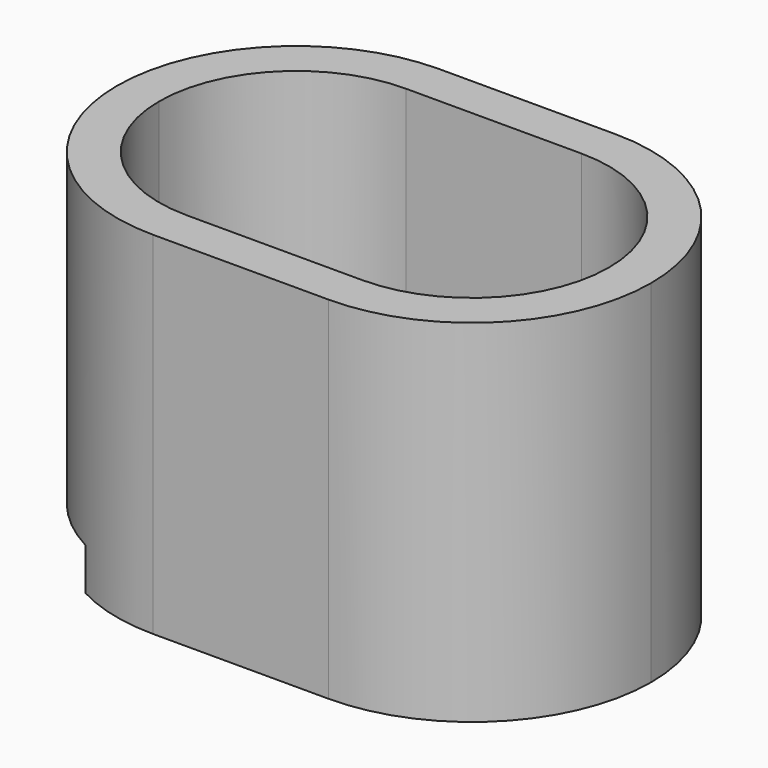
from build123d import *

# Parameters (mm, degrees)
F2_DEPTH = 25
F4_DEPTH = 3


with BuildPart() as f2:
    # F1 (on Top) → F2 (new body)
    with BuildSketch(Plane.XY):
        with BuildLine():
            ThreePointArc((19, 0), (15.265611, 9.015611), (6.25, 12.75))
            Line((6.25, 12.75), (-6.25, 12.75))
            ThreePointArc((-6.25, 12.75), (-15.265611, 9.015611), (-19, 0))
            ThreePointArc((-19, 0), (-15.265611, -9.015611), (-6.25, -12.75))
            Line((-6.25, -12.75), (6.25, -12.75))
            ThreePointArc((6.25, -12.75), (15.265611, -9.015611), (19, 0))
        make_face()
        with BuildLine():
            ThreePointArc((16, 0), (13.144291, -6.894291), (6.25, -9.75))
            Line((6.25, -9.75), (-6.25, -9.75))
            ThreePointArc((-6.25, -9.75), (-13.144291, -6.894291), (-16, 0))
            ThreePointArc((-16, 0), (-13.144291, 6.894291), (-6.25, 9.75))
            Line((-6.25, 9.75), (6.25, 9.75))
            ThreePointArc((6.25, 9.75), (13.144291, 6.894291), (16, 0))
        make_face(mode=Mode.SUBTRACT)
    extrude(amount=F2_DEPTH)

    # F3 (on Top) → F4 (cut)
    with BuildSketch(Plane.XY):
        with BuildLine():
            ThreePointArc((6.25, 9.75), (16, 0), (6.25, -9.75))
            Line((6.25, -9.75), (-6.25, -9.75))
            Line((-6.25, -9.75), (-21.690901, -9.75))
            Line((-21.690901, -9.75), (-21.690901, -11.25))
            Line((-21.690901, -11.25), (-6.25, -11.25))
            Line((-6.25, -11.25), (6.25, -11.25))
            ThreePointArc((6.25, -11.25), (17.5, 0), (6.25, 11.25))
            Line((6.25, 11.25), (-21.690901, 11.25))
            Line((-21.690901, 11.25), (-21.690901, 9.75))
            Line((-21.690901, 9.75), (6.25, 9.75))
        make_face()
        with BuildLine():
            Line((-6.25, -9.75), (6.25, -9.75))
            ThreePointArc((6.25, -9.75), (16, 0), (6.25, 9.75))
            Line((6.25, 9.75), (-21.690901, 9.75))
            Line((-21.690901, 9.75), (-21.690901, -9.75))
            Line((-21.690901, -9.75), (-6.25, -9.75))
        make_face()
    extrude(amount=F4_DEPTH, mode=Mode.SUBTRACT)


solid = f2.part
